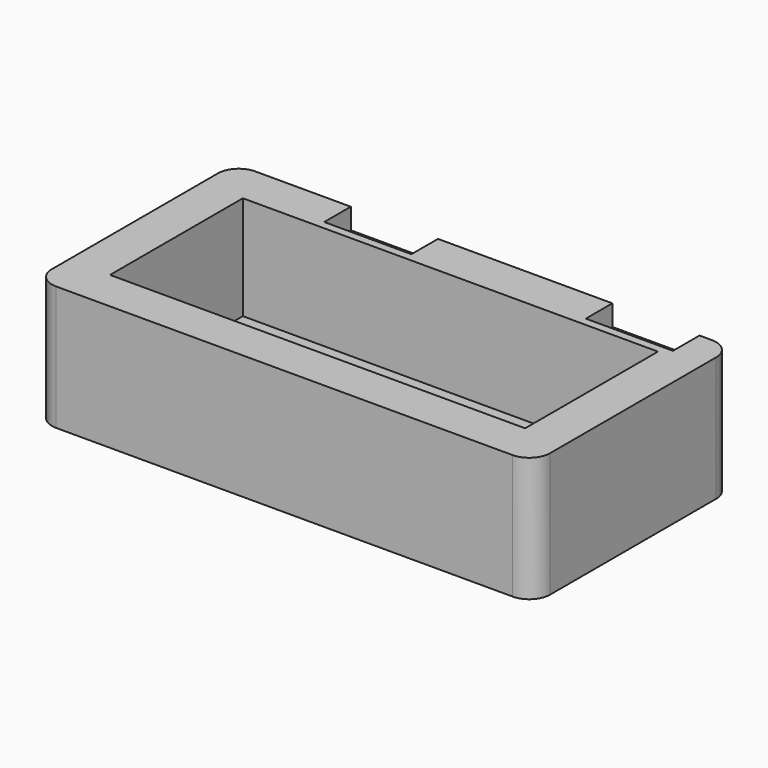
from build123d import *

# Parameters (mm, degrees)
F0_W     = 100
F0_H     = 40
F1_DEPTH = 30
F2_DEPTH = 5
F0_W_2   = 21
F0_H_2   = 6
F3_DEPTH = 13
F0_H_3   = 2
F4_DEPTH = 25
F5_R     = 5


with BuildPart() as f1:
    # F0 (on Top) → F1 (new body)
    with BuildSketch(Plane.XY):
        Polygon((0, 60), (0, 0), (120, 0), (120, 60), (112, 60), (112, 58), (112, 52), (91, 52), (91, 58), (91, 60), (49, 60), (49, 58), (49, 52), (28, 52), (28, 58), (28, 60), align=None)
        with Locations((60, 30)):
            Rectangle(F0_W, F0_H, mode=Mode.SUBTRACT)
    extrude(amount=F1_DEPTH)

    # F0 (on Top) → F2 (join)
    with BuildSketch(Plane.XY):
        with Locations((60, 30)):
            Rectangle(F0_W, F0_H)
    extrude(amount=F2_DEPTH)

    # F0 (on Top) → F3 (join)
    with BuildSketch(Plane.XY):
        with Locations((38.5, 55)):
            Rectangle(F0_W_2, F0_H_2)
        with Locations((101.5, 55)):
            Rectangle(F0_W_2, F0_H_2)
    extrude(amount=F3_DEPTH)

    # F0 (on Top) → F4 (join)
    with BuildSketch(Plane.XY):
        with Locations((38.5, 59)):
            Rectangle(F0_W_2, F0_H_3)
        with Locations((101.5, 59)):
            Rectangle(F0_W_2, F0_H_3)
    extrude(amount=F4_DEPTH)

    # F5
    f5_edges = [f1.edges().sort_by_distance(p)[0] for p in [
        (0, 0, 15),
        (120, 0, 15),
        (120, 60, 15),
        (0, 60, 15),
    ]]
    fillet(f5_edges, radius=F5_R)


solid = f1.part
